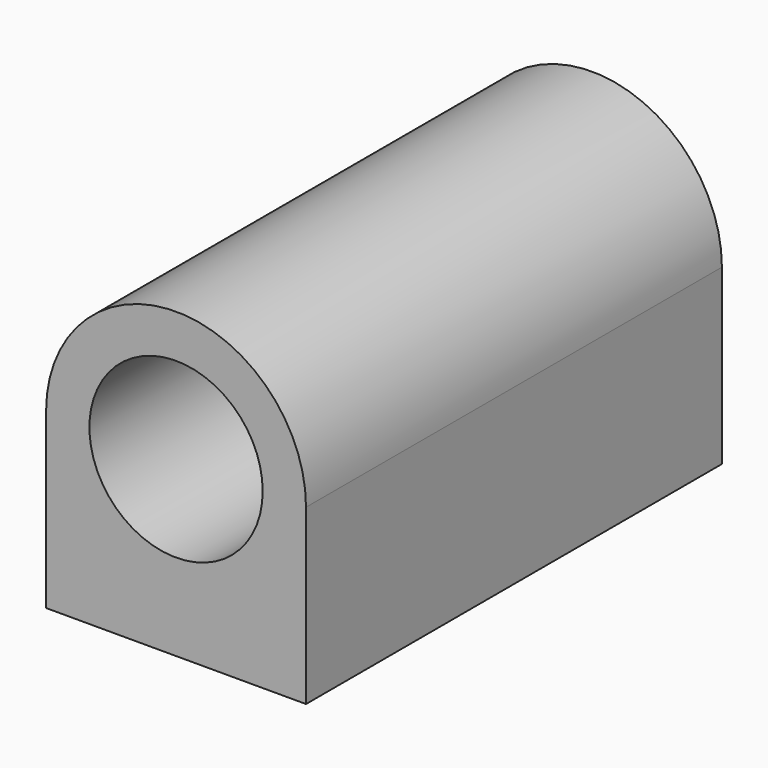
from build123d import *

# Parameters (mm, degrees)
F0_R     = 0.5
F1_DEPTH = 3
F3_D     = 0.13
F3_DEPTH = 0.5
F3_TIP   = 0.0390559402


with BuildPart() as f1:
    # F0 (on Front) → F1 (new body)
    with BuildSketch(Plane.XZ):
        with BuildLine():
            Line((-0.75, 1), (-0.75, 0))
            Line((-0.75, 0), (0.75, 0))
            Line((0.75, 0), (0.75, 1))
            ThreePointArc((0.75, 1), (0, 1.75), (-0.75, 1))
        make_face()
        with Locations((0, 1)):
            Circle(F0_R, mode=Mode.SUBTRACT)
    extrude(amount=F1_DEPTH)

    # F3
    with Locations(Plane(origin=(0, 0, 0), x_dir=(1, 0, 0), z_dir=(0, 0, -1))):
        with Locations((-0.5, 2.75), (0.5, 2.75), (-0.5, 0.25), (0.5, 0.25)):
            Hole(F3_D / 2, depth=F3_DEPTH)
            with Locations((0, 0, -(F3_DEPTH + F3_TIP / 2))):  # 118° drill point
                Cone(0, F3_D / 2, F3_TIP, mode=Mode.SUBTRACT)


solid = f1.part
